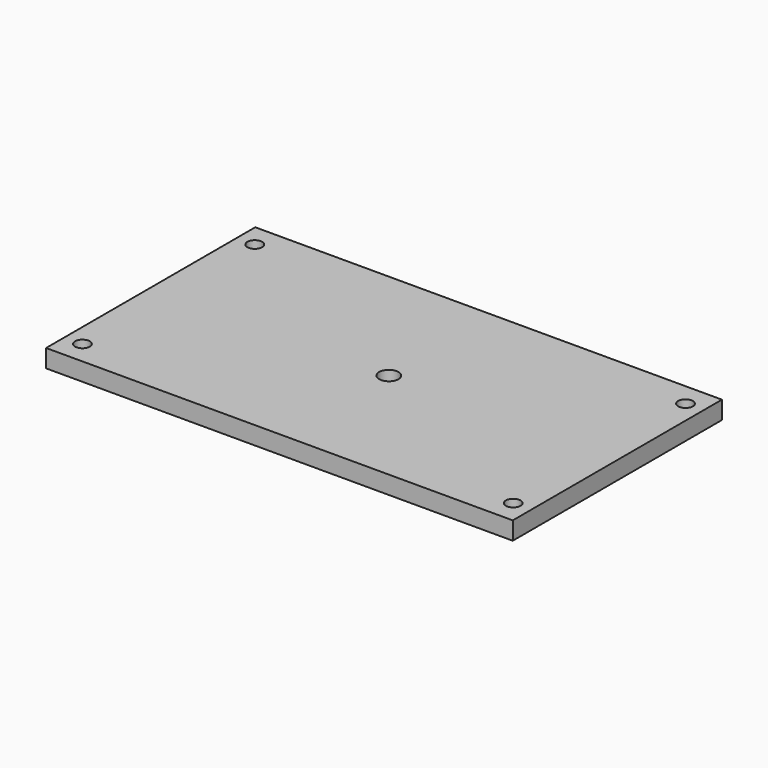
from build123d import *

# Parameters (mm, degrees)
F0_W     = 130
F0_H     = 36.4172644913
F1_DEPTH = 5
F2_D     = 4.1
F3_D     = 5.4102


with BuildPart() as f1:
    # F0 (on Top) → F1 (new body)
    with BuildSketch(Plane.XY):
        with Locations((-1.3452520967, 18.2086322457)):
            Rectangle(F0_W, F0_H)
        with Locations((-1.3452520967, -18.2086322457)):
            Rectangle(F0_W, F0_H)
    extrude(amount=F1_DEPTH)

    # F2 (through all)
    with Locations(Plane(origin=(0, 0, 0), x_dir=(1, 0, 0), z_dir=(0, 0, -1))):
        with Locations((-61.3452520967, -30), (-61.3452520967, 30), (58.6547479033, -30), (58.6547479033, 30)):
            Hole(F2_D / 2)

    # F3 (through all)
    with Locations(Plane(origin=(0, 0, 0), x_dir=(1, 0, 0), z_dir=(0, 0, -1))):
        with Locations((0, 0)):
            Hole(F3_D / 2)


solid = f1.part
